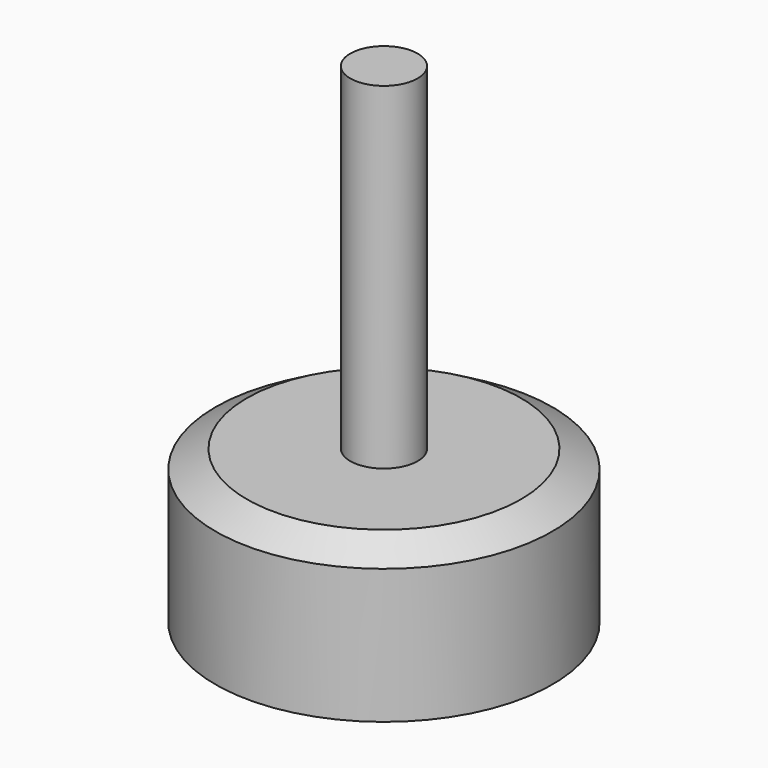
from build123d import *

# Parameters (mm, degrees)
F0_W   = 2
F0_H   = 20
F0_H_2 = 3
F0_H_3 = 1.0746234533


with BuildPart() as f1:
    # F0 (on Front) → F1 (revolve)
    with BuildSketch(Plane.XZ):
        with Locations((-21.5513077103, 19.0746234533)):
            Rectangle(F0_W, F0_H)
        Polygon((-22.5513077103, 8), (-30.5513077103, 8), (-30.5513077103, 0), (-22.5513077103, 0), (-22.5513077103, 5), align=None)
        Polygon((-28.6900052902, 9.0746234533), (-30.5513077103, 8), (-22.5513077103, 8), (-22.5513077103, 9.0746234533), align=None)
        with Locations((-21.5513077103, 6.5)):
            Rectangle(F0_W, F0_H_2)
        with Locations((-21.5513077103, 8.5373117267)):
            Rectangle(F0_W, F0_H_3)
    revolve(axis=Axis((-20.5513077103, 0, 19.0746234533), (0, 0, 1)))


solid = f1.part
